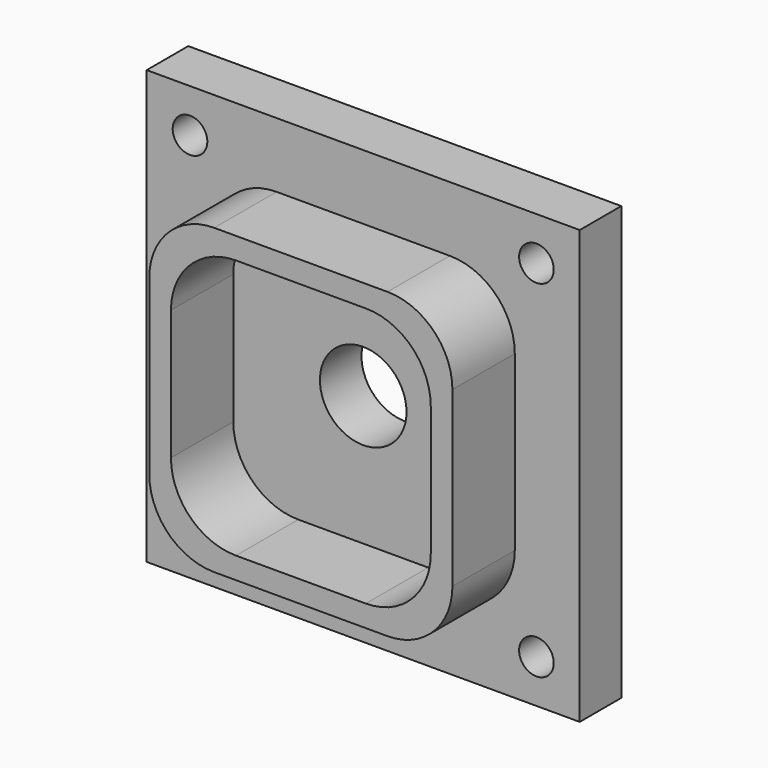
from build123d import *

# Parameters (mm, degrees)
F1_DEPTH = 30
F0_W     = 100
F0_H     = 100
F0_R     = 4
F0_R_2   = 10
F2_DEPTH = 12


with BuildPart() as f1:
    # F0 (on Front) → F1 (new body)
    with BuildSketch(Plane.XZ):
        with BuildLine():
            Line((-30, 85), (-70, 85))
            ThreePointArc((-70, 85), (-80.606602, 80.606602), (-85, 70))
            Line((-85, 70), (-85, 30))
            ThreePointArc((-85, 30), (-80.606602, 19.393398), (-70, 15))
            Line((-70, 15), (-30, 15))
            ThreePointArc((-30, 15), (-19.393398, 19.393398), (-15, 30))
            Line((-15, 30), (-15, 70))
            ThreePointArc((-15, 70), (-19.393398, 80.606602), (-30, 85))
        make_face()
        with BuildLine():
            ThreePointArc((-80, 65), (-75.606602, 75.606602), (-65, 80))
            Line((-65, 80), (-35, 80))
            ThreePointArc((-35, 80), (-24.393398, 75.606602), (-20, 65))
            Line((-20, 65), (-20, 35))
            ThreePointArc((-20, 35), (-24.393398, 24.393398), (-35, 20))
            Line((-35, 20), (-65, 20))
            ThreePointArc((-65, 20), (-75.606602, 24.393398), (-80, 35))
            Line((-80, 35), (-80, 65))
        make_face(mode=Mode.SUBTRACT)
    extrude(amount=F1_DEPTH)

    # F0 (on Front) → F2 (join)
    with BuildSketch(Plane.XZ):
        with Locations((-50, 50)):
            Rectangle(F0_W, F0_H)
        with Locations((-90, 10)):
            Circle(F0_R, mode=Mode.SUBTRACT)
        with Locations((-10, 10)):
            Circle(F0_R, mode=Mode.SUBTRACT)
        with Locations((-90, 90)):
            Circle(F0_R, mode=Mode.SUBTRACT)
        with BuildLine():
            ThreePointArc((-85, 70), (-80.606602, 80.606602), (-70, 85))
            Line((-70, 85), (-30, 85))
            ThreePointArc((-30, 85), (-19.393398, 80.606602), (-15, 70))
            Line((-15, 70), (-15, 30))
            ThreePointArc((-15, 30), (-19.393398, 19.393398), (-30, 15))
            Line((-30, 15), (-70, 15))
            ThreePointArc((-70, 15), (-80.606602, 19.393398), (-85, 30))
            Line((-85, 30), (-85, 70))
        make_face(mode=Mode.SUBTRACT)
        with Locations((-10, 90)):
            Circle(F0_R, mode=Mode.SUBTRACT)
        with BuildLine():
            Line((-35, 80), (-65, 80))
            ThreePointArc((-65, 80), (-75.606602, 75.606602), (-80, 65))
            Line((-80, 65), (-80, 35))
            ThreePointArc((-80, 35), (-75.606602, 24.393398), (-65, 20))
            Line((-65, 20), (-35, 20))
            ThreePointArc((-35, 20), (-24.393398, 24.393398), (-20, 35))
            Line((-20, 35), (-20, 65))
            ThreePointArc((-20, 65), (-24.393398, 75.606602), (-35, 80))
        make_face()
        with Locations((-50, 50)):
            Circle(F0_R_2, mode=Mode.SUBTRACT)
    extrude(amount=F2_DEPTH)


solid = f1.part
